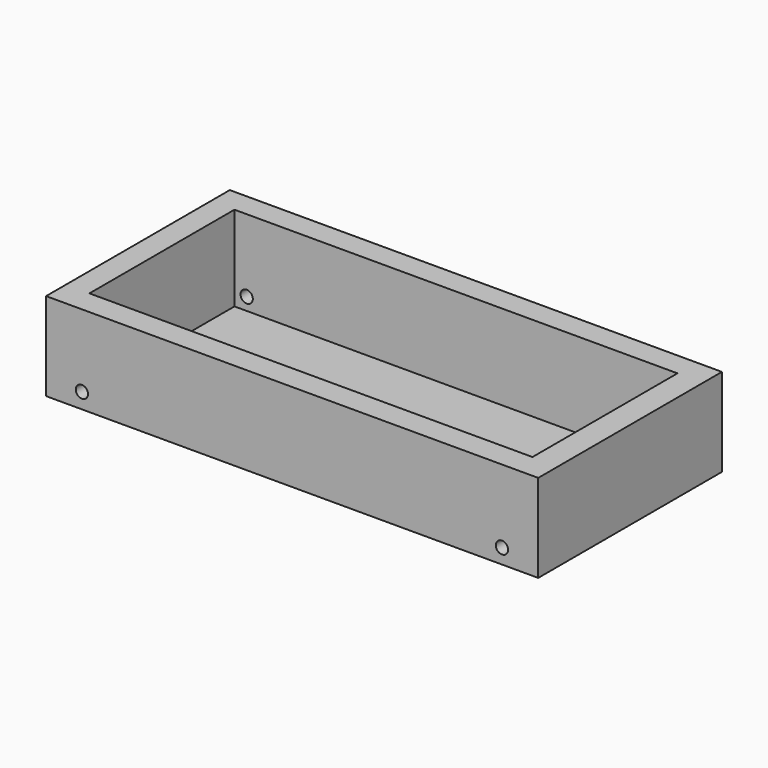
from build123d import *

# Parameters (mm, degrees)
F0_W     = 220.749088
F0_H     = 102.985457
F1_DEPTH = 39.5
F2_W     = 198.709123
F2_H     = 81.303883
F3_DEPTH = 38.2
F5_D     = 5.5


with BuildPart() as f1:
    # F0 (on Top) → F1 (new body)
    with BuildSketch(Plane.XY):
        with Locations((10.852728, -7.735457)):
            Rectangle(F0_W, F0_H)
    extrude(amount=F1_DEPTH)

    # F2 (on face) → F3 (cut)
    with BuildSketch(Plane.XY.offset(39.5)):
        with Locations((10.40272, -7.478898)):
            Rectangle(F2_W, F2_H)
    extrude(amount=-F3_DEPTH, mode=Mode.SUBTRACT)

    # F5 (through all)
    with Locations(Plane.XZ.offset(59.228186)):
        with Locations((-83.465457, 6.931819), (104.943641, 6.704546)):
            Hole(F5_D / 2)


solid = f1.part
